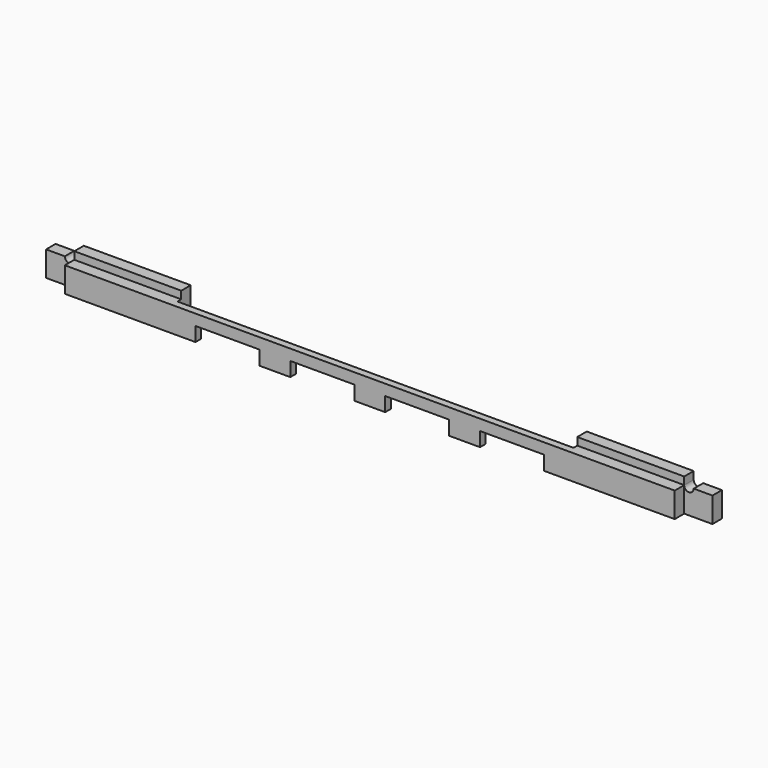
from build123d import *

# Parameters (mm, degrees)
F1_DEPTH = 5
F0_W     = 128.6
F0_H     = 1.6
F2_DEPTH = 2.5
F3_W     = 2
F3_H     = 2
F4_DEPTH = 2
F5_W     = 2
F5_H     = 2
F6_DEPTH = 2
F8_DEPTH = 3.5


with BuildPart() as f1:
    # F0 (on Front) → F1 (new body)
    with BuildSketch(Plane.XZ):
        Polygon((64.3, 0.177778), (64.3, 5.477778), (-64.3, 5.477778), (-64.3, 0.177778), (-36.75, 0.177778), (-36.75, 3.177778), (-23.25, 3.177778), (-23.25, 0.177778), (-16.75, 0.177778), (-16.75, 3.177778), (-3.25, 3.177778), (-3.25, 0.177778), (3.25, 0.177778), (3.25, 3.177778), (16.75, 3.177778), (16.75, 0.177778), (23.25, 0.177778), (23.25, 3.177778), (36.75, 3.177778), (36.75, 0.177778), align=None)
    extrude(amount=F1_DEPTH)

    # F0 (on Front) → F2 (join)
    with BuildSketch(Plane.XZ):
        with BuildLine():
            Line((-64.3, 0.177778), (-64.3, 5.477778))
            ThreePointArc((-64.3, 5.477778), (-65.3, 4.477778), (-66.3, 5.477778))
            Line((-66.3, 5.477778), (-70.25, 5.477778))
            Line((-70.25, 5.477778), (-70.25, 0.177778))
            Line((-70.25, 0.177778), (-64.3, 0.177778))
        make_face()
        with Locations((0, 6.277778)):
            Rectangle(F0_W, F0_H)
        with BuildLine():
            ThreePointArc((66.3, 5.477778), (65.3, 4.477778), (64.3, 5.477778))
            Line((64.3, 5.477778), (64.3, 0.177778))
            Line((64.3, 0.177778), (70.25, 0.177778))
            Line((70.25, 0.177778), (70.25, 5.477778))
            Line((70.25, 5.477778), (66.3, 5.477778))
        make_face()
    extrude(amount=F2_DEPTH)

    # F3 (on face) → F4 (cut)
    with BuildSketch(Plane(origin=(0, 0, 0.177778), x_dir=(1, 0, 0), z_dir=(0, 0, -1))):
        with Locations((50.525, 2.5)):
            Rectangle(F3_W, F3_H)
    extrude(amount=-F4_DEPTH, mode=Mode.SUBTRACT)

    # F5 (on face) → F6 (cut)
    with BuildSketch(Plane(origin=(0, 0, 0.177778), x_dir=(1, 0, 0), z_dir=(0, 0, -1))):
        with Locations((-50.525, 2.5)):
            Rectangle(F5_W, F5_H)
    extrude(amount=-F6_DEPTH, mode=Mode.SUBTRACT)

    # F7 (on face) → F8 (cut)
    with BuildSketch(Plane(origin=(0, 0, 0), x_dir=(-1, 0, 0), z_dir=(0, 1, 0))):
        Polygon((-41.75, 7.077778), (-41.75, 0.177778), (-36.75, 0.177778), (-36.75, 3.177778), (-23.25, 3.177778), (-23.25, 0.177778), (-16.75, 0.177778), (-16.75, 3.177778), (-3.25, 3.177778), (-3.25, 0.177778), (3.25, 0.177778), (3.25, 3.177778), (16.75, 3.177778), (16.75, 0.177778), (23.25, 0.177778), (23.25, 3.177778), (36.75, 3.177778), (36.75, 0.177778), (41.75, 0.177778), (41.75, 7.077778), align=None)
    extrude(amount=-F8_DEPTH, mode=Mode.SUBTRACT)


solid = f1.part
